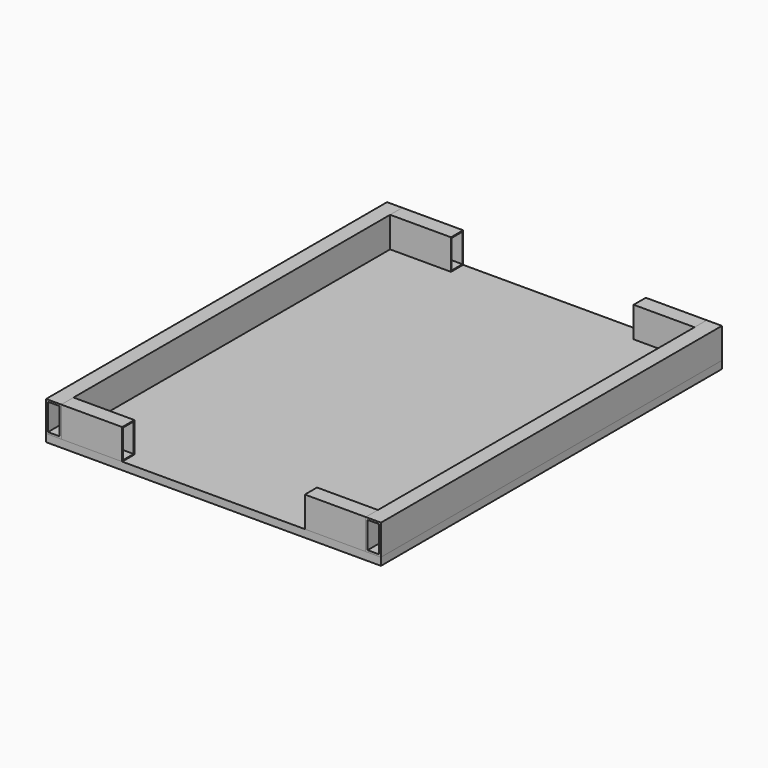
from build123d import *

# Parameters (mm, degrees)
F0_W          = 25.4
F0_H          = 50.8
F0_W_2        = 19.05
F0_H_2        = 44.45
F1_DEPTH      = 355.6
F1_DEPTH_BACK = 355.6
F2_W          = 558.8
F2_H          = 711.2
F3_DEPTH      = 12.7
F4_W          = 25.4
F4_H          = 50.8
F4_W_2        = 22.225
F4_H_2        = 47.625
F5_DEPTH      = 101.6
F6_W          = 25.4
F6_H          = 50.8
F6_W_2        = 22.225
F6_H_2        = 47.625
F7_DEPTH      = 101.6


with BuildPart() as f1:
    # F0 (on Front) → F1 (new body, two sides)
    with BuildSketch(Plane.XZ) as f1_sk:
        with Locations((-266.7, 0)):
            Rectangle(F0_W, F0_H)
        with Locations((-266.7, 0)):
            Rectangle(F0_W_2, F0_H_2, mode=Mode.SUBTRACT)
        with Locations((266.7, 0)):
            Rectangle(F0_W, F0_H)
        with Locations((266.7, 0)):
            Rectangle(F0_W_2, F0_H_2, mode=Mode.SUBTRACT)
    extrude(amount=F1_DEPTH)
    extrude(f1_sk.sketch, amount=-F1_DEPTH_BACK)


with BuildPart() as f3:
    # F2 (on face) → F3 (new body)
    with BuildSketch(Plane(origin=(0, 0, -25.4), x_dir=(1, 0, 0), z_dir=(0, 0, -1))):
        Rectangle(F2_W, F2_H)
    extrude(amount=F3_DEPTH)


with BuildPart() as f5:
    # F4 (on face) → F5 (new body)
    with BuildSketch(Plane(origin=(254, 0, 0), x_dir=(0, -1, 0), z_dir=(-1, 0, 0))):
        with Locations((-342.9, 0)):
            Rectangle(F4_W, F4_H)
        with Locations((-342.9, 0)):
            Rectangle(F4_W_2, F4_H_2, mode=Mode.SUBTRACT)
        with Locations((342.9, 0)):
            Rectangle(F4_W, F4_H)
        with Locations((342.9, 0)):
            Rectangle(F4_W_2, F4_H_2, mode=Mode.SUBTRACT)
    extrude(amount=F5_DEPTH)


with BuildPart() as f7:
    # F6 (on face) → F7 (new body)
    with BuildSketch(Plane.YZ.offset(-254)):
        with Locations((-342.9, 0)):
            Rectangle(F6_W, F6_H)
        with Locations((-342.9, 0)):
            Rectangle(F6_W_2, F6_H_2, mode=Mode.SUBTRACT)
        with Locations((342.9, 0)):
            Rectangle(F6_W, F6_H)
        with Locations((342.9, 0)):
            Rectangle(F6_W_2, F6_H_2, mode=Mode.SUBTRACT)
    extrude(amount=F7_DEPTH)


solid = Compound([f1.part, f3.part, f5.part, f7.part])
